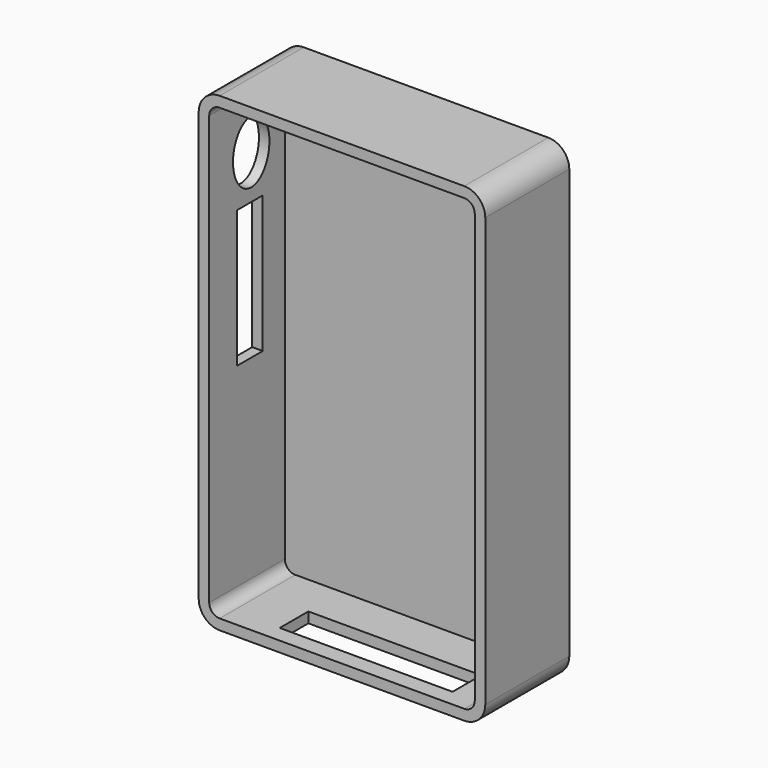
from build123d import *

# Parameters (mm, degrees)
F0_W      = 68.2130311616
F0_H      = 112.0246499777
F1_DEPTH  = 12.5
F2_R      = 5
F3_T      = -2.5
F5_DEPTH  = 12.5
F7_DEPTH  = 12.5
F8_W      = 41.1343723536
F8_H      = 8.5135642439
F9_DEPTH  = 12.5
F10_W     = 7.6575540006
F10_H     = 32.6063591056
F11_DEPTH = 12.5


with BuildPart() as f1:
    # F0 (on Front) → F1 (new body, symmetric)
    with BuildSketch(Plane.XZ):
        with Locations((-3.3274649177, 0)):
            Rectangle(F0_W, F0_H)
    extrude(amount=F1_DEPTH, both=True)

    # F2
    f2_edges = [f1.edges().sort_by_distance(p)[0] for p in [
        (-37.43398, 0, 56.012325),
        (30.779051, 0, 56.012325),
        (30.779051, 0, -56.012325),
        (-37.43398, 0, -56.012325),
    ]]
    fillet(f2_edges, radius=F2_R)

    # F3
    f3_openings = [f1.faces().sort_by_distance(p)[0] for p in [
        (-3.327465, -12.5, 0),
    ]]
    offset(amount=F3_T, openings=f3_openings)

    # F4 (on face) → F5 (cut, symmetric)
    with BuildSketch(Plane.XZ.offset(-10)):
        Polygon((5.7816317596, 53.5123249888), (12.0995264448, 36.138133153), (24.5052874088, 50.9139038622), (9.7942447614, 53.5123249888), align=None)
    extrude(amount=F5_DEPTH, both=True, mode=Mode.SUBTRACT)

    # F6 (on face) → F7 (cut, symmetric)
    with BuildSketch(Plane(origin=(-37.4339804985, 0, 0), x_dir=(0, -1, 0), z_dir=(-1, 0, 0))):
        with BuildLine():
            add(Edge.make_bspline(
                [(0, 30.9395752847), (9.3745925943, 30.9395752847), (4.6872962971, 42.1479567885), (0, 53.3563382924), (-4.6872962971, 42.1479567885), (-9.3745925943, 30.9395752847), (0, 30.9395752847)],
                knots=[0, 0, 0, 2.0943951024, 2.0943951024, 4.1887902048, 4.1887902048, 6.2831853072, 6.2831853072, 6.2831853072], degree=2, weights=[1, 0.5, 1, 0.5, 1, 0.5, 1]))
        make_face()
    extrude(amount=F7_DEPTH, both=True, mode=Mode.SUBTRACT)

    # F8 (on face) → F9 (cut, symmetric)
    with BuildSketch(Plane(origin=(0, 0, -56.0123249888), x_dir=(1, 0, 0), z_dir=(0, 0, -1))):
        with Locations((-0.7663033903, 4.256782122)):
            Rectangle(F8_W, F8_H)
    extrude(amount=F9_DEPTH, both=True, mode=Mode.SUBTRACT)

    # F10 (on face) → F11 (cut, symmetric)
    with BuildSketch(Plane(origin=(-37.4339804985, 0, 0), x_dir=(0, -1, 0), z_dir=(-1, 0, 0))):
        with Locations((0.3990856931, 11.5511289332)):
            Rectangle(F10_W, F10_H)
    extrude(amount=F11_DEPTH, both=True, mode=Mode.SUBTRACT)


solid = f1.part
